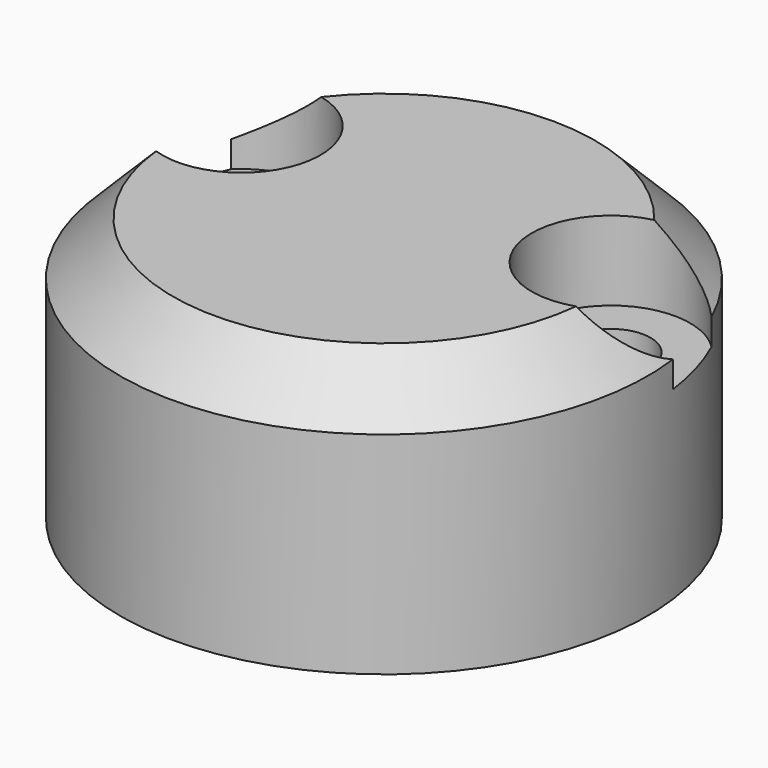
from build123d import *

# Parameters (mm, degrees)
CYLINDER2357_R              = 1.5
CYLINDER2357_DEPTH          = 20
CYLINDER2367_R              = 1.5
CYLINDER2367_DEPTH          = 20
CYLINDER2363_R              = 1.5
CYLINDER2363_DEPTH          = 20
CYLINDER2378_R              = 1.5
CYLINDER2378_DEPTH          = 20
COMPOUND999_PLACEMENT_ANGLE = 90
CYLINDER2373_R              = 3
CYLINDER2373_DEPTH          = 4
CYLINDER2360_R              = 3
CYLINDER2360_DEPTH          = 4
CYLINDER2362_R              = 3
CYLINDER2362_DEPTH          = 4
CYLINDER2361_R              = 3
CYLINDER2361_DEPTH          = 4
COMPOUND994_PLACEMENT_ANGLE = 90
CYLINDER2359_R              = 10
CYLINDER2359_DEPTH          = 10
CHAMFER057_SIZE             = 2
CUT596_PLACEMENT_ANGLE      = 180


with BuildPart() as obj1:
    # Cylinder2357 → Cylinder2357 (new body)
    with BuildSketch(Plane(origin=(-7, -34, 37), x_dir=(1, 0, 0), z_dir=(0, -1, 0))):
        Circle(CYLINDER2357_R)
    extrude(amount=CYLINDER2357_DEPTH)


with BuildPart() as obj2:
    # Cylinder2367 → Cylinder2367 (new body)
    with BuildSketch(Plane(origin=(7, -34, 73), x_dir=(1, 0, 0), z_dir=(0, -1, 0))):
        Circle(CYLINDER2367_R)
    extrude(amount=CYLINDER2367_DEPTH)


with BuildPart() as obj3:
    # Cylinder2363 → Cylinder2363 (new body)
    with BuildSketch(Plane(origin=(-7, -34, 73), x_dir=(1, 0, 0), z_dir=(0, -1, 0))):
        Circle(CYLINDER2363_R)
    extrude(amount=CYLINDER2363_DEPTH)


with BuildPart() as compound999:
    # Cylinder2378 → Cylinder2378 (new body)
    with BuildSketch(Plane(origin=(7, -34, 37), x_dir=(1, 0, 0), z_dir=(0, -1, 0))):
        Circle(CYLINDER2378_R)
    extrude(amount=CYLINDER2378_DEPTH)

    # Compound999: union obj1, obj2, obj3
    add(obj1.part)
    add(obj2.part)
    add(obj3.part)


with BuildPart() as compound999_1:
    # Compound999 placement: moved
    add(compound999.part.moved(Location((0, 141, 45))).rotate(Axis((0, 141, 45), (1, 0, 0)), COMPOUND999_PLACEMENT_ANGLE))


with BuildPart() as obj4:
    # Cylinder2373 → Cylinder2373 (new body)
    with BuildSketch(Plane(origin=(-7, -34, 37), x_dir=(1, 0, 0), z_dir=(0, -1, 0))):
        Circle(CYLINDER2373_R)
    extrude(amount=CYLINDER2373_DEPTH)


with BuildPart() as obj5:
    # Cylinder2360 → Cylinder2360 (new body)
    with BuildSketch(Plane(origin=(7, -34, 73), x_dir=(1, 0, 0), z_dir=(0, -1, 0))):
        Circle(CYLINDER2360_R)
    extrude(amount=CYLINDER2360_DEPTH)


with BuildPart() as obj6:
    # Cylinder2362 → Cylinder2362 (new body)
    with BuildSketch(Plane(origin=(-7, -34, 73), x_dir=(1, 0, 0), z_dir=(0, -1, 0))):
        Circle(CYLINDER2362_R)
    extrude(amount=CYLINDER2362_DEPTH)


with BuildPart() as compound994:
    # Cylinder2361 → Cylinder2361 (new body)
    with BuildSketch(Plane(origin=(7, -34, 37), x_dir=(1, 0, 0), z_dir=(0, -1, 0))):
        Circle(CYLINDER2361_R)
    extrude(amount=CYLINDER2361_DEPTH)

    # Compound994: union obj4, obj5, obj6
    add(obj4.part)
    add(obj5.part)
    add(obj6.part)


with BuildPart() as compound994_1:
    # Compound994 placement: moved
    add(compound994.part.moved(Location((0, 141, 45))).rotate(Axis((0, 141, 45), (1, 0, 0)), COMPOUND994_PLACEMENT_ANGLE))


with BuildPart() as cut596:
    # Cylinder2359 → Cylinder2359 (new body)
    with BuildSketch(Plane(origin=(0, 106, 0), x_dir=(1, 0, 0), z_dir=(0, 0, 1))):
        Circle(CYLINDER2359_R)
    extrude(amount=CYLINDER2359_DEPTH)

    # Chamfer057
    chamfer057_edges = [cut596.edges().sort_by_distance(p)[0] for p in [
        (-10, 106, 10),
    ]]
    chamfer(chamfer057_edges, length=CHAMFER057_SIZE)

    # Cut595: cut Compound994
    add(compound994_1.part, mode=Mode.SUBTRACT)

    # Cut596: cut Compound999
    add(compound999_1.part, mode=Mode.SUBTRACT)


with BuildPart() as cut596_1:
    # Cut596 placement: moved
    add(cut596.part.moved(Location((52, -19, -36))).rotate(Axis((52, -19, -36), (0, 0, 1)), CUT596_PLACEMENT_ANGLE))


solid = cut596_1.part
